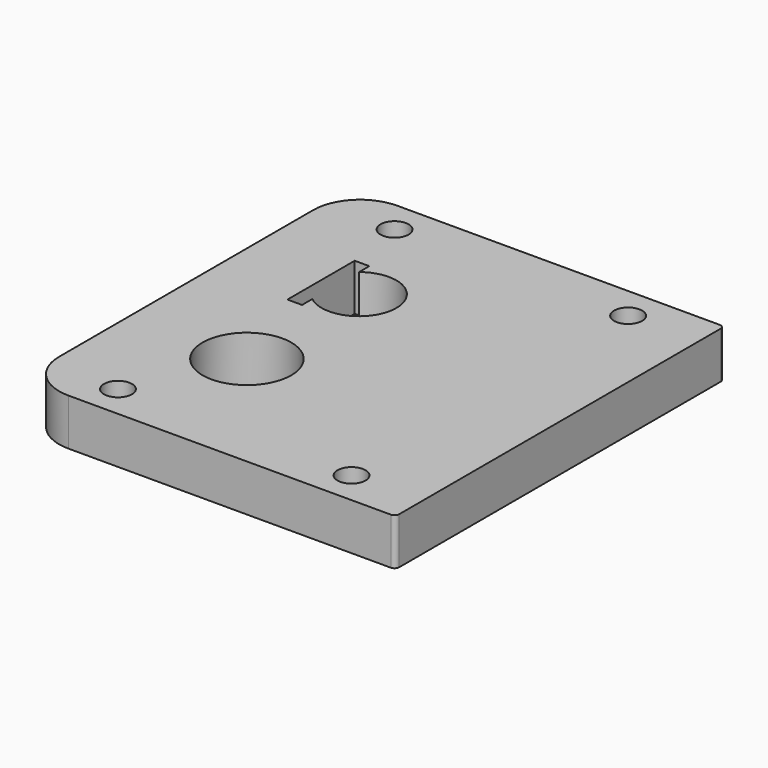
from build123d import *

# Parameters (mm, degrees)
SKETCH_W    = 80
SKETCH_H    = 88
SKETCH_R    = 9.5
SKETCH_R_2  = 3
PAD_DEPTH   = 10
FILLET_R    = 1
FILLET001_R = 10


with BuildPart() as part:
    # Sketch → Pad (new body)
    with BuildSketch(Plane.XY):
        with Locations((15, -15)):
            Rectangle(SKETCH_W, SKETCH_H)
        with Locations((0, -30)):
            Circle(SKETCH_R, mode=Mode.SUBTRACT)
        with Locations((-10, -52)):
            Circle(SKETCH_R_2, mode=Mode.SUBTRACT)
        with Locations((40, -52)):
            Circle(SKETCH_R_2, mode=Mode.SUBTRACT)
        with Locations((40, 22)):
            Circle(SKETCH_R_2, mode=Mode.SUBTRACT)
        with Locations((-10, 22)):
            Circle(SKETCH_R_2, mode=Mode.SUBTRACT)
        with BuildLine():
            ThreePointArc((-5, -6.244998), (8, 0), (-5, 6.244998))
            Line((-5, 9), (-5, 6.244998))
            Line((-8.125, 9), (-5, 9))
            Line((-8.125, -9), (-8.125, 9))
            Line((-5, -9), (-8.125, -9))
            Line((-5, -6.244998), (-5, -9))
        make_face(mode=Mode.SUBTRACT)
    extrude(amount=PAD_DEPTH)

    # Fillet
    fillet_edges = [part.edges().sort_by_distance(p)[0] for p in [
        (55, -59, 5),
        (55, 29, 5),
    ]]
    fillet(fillet_edges, radius=FILLET_R)

    # Fillet001
    fillet001_edges = [part.edges().sort_by_distance(p)[0] for p in [
        (-25, -59, 5),
        (-25, 29, 5),
    ]]
    fillet(fillet001_edges, radius=FILLET001_R)


solid = part.part
